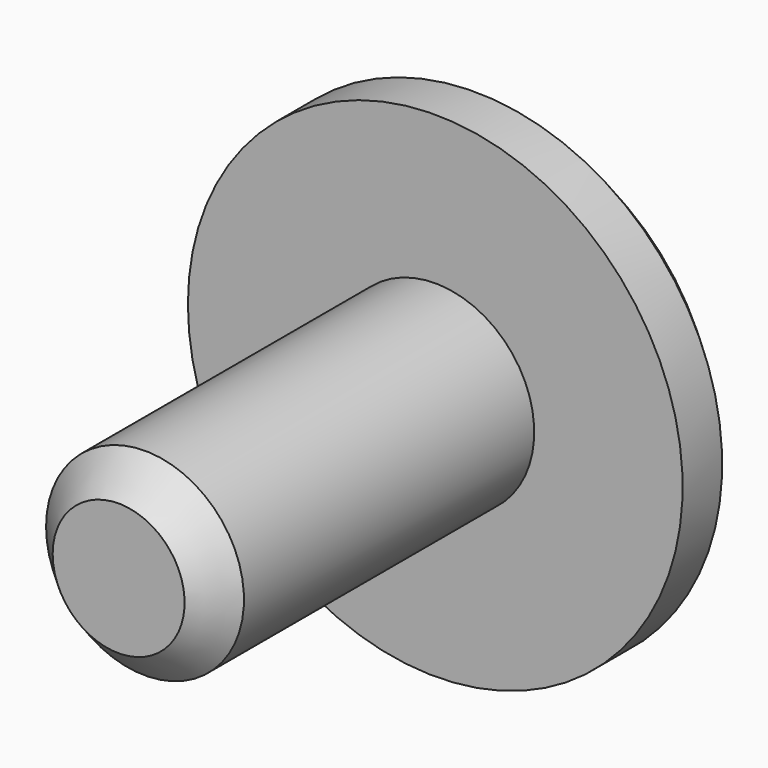
from build123d import *

# Parameters (mm, degrees)
F2_SIZE  = 1
F4_DEPTH = 2


with BuildPart() as f1:
    # F0 (on Top) → F1 (revolve)
    with BuildSketch(Plane.XY):
        Polygon((-3, 0), (0, 0), (0, 14.5), (-7.5, 14.5), (-7.5, 12), (-3, 12), align=None)
    revolve(axis=Axis((0, 7.25, 0), (0, -1, 0)))

    # F2
    f2_edges = [f1.edges().sort_by_distance(p)[0] for p in [
        (7.5, 14.5, 0),
        (3, 0, 0),
    ]]
    chamfer(f2_edges, length=F2_SIZE)

    # F3 (on face) → F4 (cut)
    with BuildSketch(Plane(origin=(0, 14.5, 0), x_dir=(-1, 0, 0), z_dir=(0, 1, 0))):
        Polygon((1.154701, 2), (-1.154701, 2), (-2.309401, 0), (-1.154701, -2), (1.154701, -2), (2.309401, 0), align=None)
    extrude(amount=-F4_DEPTH, mode=Mode.SUBTRACT)


solid = f1.part
